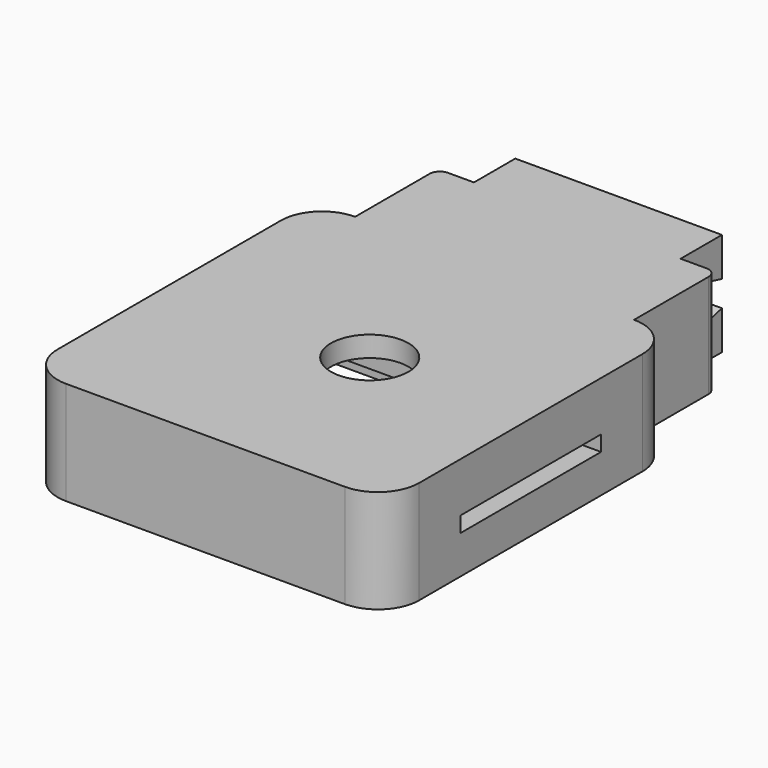
from build123d import *

# Parameters (mm, degrees)
BOX_W           = 35
BOX_H           = 35
BOX_DEPTH       = 10
SKETCH_W        = 24.5
SKETCH_H        = 25.5
POCKET_DEPTH    = 8
SKETCH001_R     = 3.75
POCKET001_DEPTH = 2
PAD_DEPTH       = 2
SKETCH003_W     = 17
SKETCH003_H     = 1.5
POCKET002_DEPTH = 5.251
FILLET_R        = 4
FILLET_FACE7_W  = 27
FILLET_FACE7_H  = 10
PAD001_DEPTH    = 10
PAD001_FACE19_W = 27
PAD001_FACE19_H = 10
PAD002_DEPTH    = 5
POCKET003_DEPTH = 31.001
POCKET004_DEPTH = 3.5
POCKET005_DEPTH = 3.5
FILLET001_R     = 1


with BuildPart() as part:
    # Box → Box (new body)
    with BuildSketch(Plane.XY):
        with Locations((17.5, 17.5)):
            Rectangle(BOX_W, BOX_H)
    extrude(amount=BOX_DEPTH)

    # Sketch (on Face5 of BaseFeature) → Pocket (cut)
    with BuildSketch(Plane(origin=(0, 0, 0), x_dir=(1, 0, 0), z_dir=(0, 0, -1))):
        with Locations((17.5, -17.5)):
            Rectangle(SKETCH_W, SKETCH_H)
    extrude(amount=-POCKET_DEPTH, mode=Mode.SUBTRACT)

    # Sketch001 (on Face3 of Pocket) → Pocket001 (cut)
    with BuildSketch(Plane.XY.offset(10)):
        with Locations((19.25, 17.7)):
            Circle(SKETCH001_R)
    extrude(amount=-POCKET001_DEPTH, mode=Mode.SUBTRACT)

    # Sketch002 (on Face12 of Pocket001) → Pad (join)
    with BuildSketch(Plane(origin=(0, 0, 8), x_dir=(1, 0, 0), z_dir=(0, 0, -1))):
        Polygon((12.75, -30.25), (29.75, -30.25), (29.75, -4.75), (5.25, -4.75), (5.25, -12.75), (23.75, -12.75), (23.75, -22.25), (12.75, -22.25), align=None)
    extrude(amount=PAD_DEPTH)

    # Sketch003 (on Face9 of Pad) → Pocket002 (cut, through all)
    with BuildSketch(Plane(origin=(29.75, 0, 0), x_dir=(0, -1, 0), z_dir=(-1, 0, 0))):
        with Locations((-17.5, 4.45)):
            Rectangle(SKETCH003_W, SKETCH003_H)
    extrude(amount=-POCKET002_DEPTH, mode=Mode.SUBTRACT)

    # Fillet
    fillet_edges = [part.edges().sort_by_distance(p)[0] for p in [
        (0, 0, 5),
        (35, 0, 5),
        (0, 35, 5),
        (35, 35, 5),
    ]]
    fillet(fillet_edges, radius=FILLET_R)

    # Fillet Face7 → Pad001 (add)
    with BuildSketch(Plane(origin=(17.5, 35, 5), x_dir=(1, 0, 0), z_dir=(0, 1, 0))):
        Rectangle(FILLET_FACE7_W, FILLET_FACE7_H)
    extrude(amount=PAD001_DEPTH)

    # Pad001 Face19 → Pad002 (add)
    with BuildSketch(Plane(origin=(17.5, 45, 5), x_dir=(1, 0, 0), z_dir=(0, 1, 0))):
        Rectangle(PAD001_FACE19_W, PAD001_FACE19_H)
    extrude(amount=PAD002_DEPTH)

    # Sketch004 (on Face30 of Pad002) → Pocket003 (cut, through all)
    with BuildSketch(Plane.YZ.offset(31)):
        Polygon((45, 2.5), (45, 7.5), (50, 6.25), (50, 3.75), align=None)
    extrude(amount=-POCKET003_DEPTH, mode=Mode.SUBTRACT)

    # Sketch005 (on Face32 of Pocket003) → Pocket004 (cut)
    with BuildSketch(Plane.YZ.offset(31)):
        Polygon((45, 0), (45, 2.5), (50, 3.75), (50, 0), align=None)
        Polygon((45, 7.5), (45, 10), (50, 10), (50, 6.25), align=None)
    extrude(amount=-POCKET004_DEPTH, mode=Mode.SUBTRACT)

    # Sketch006 (on Face28 of Pocket004) → Pocket005 (cut)
    with BuildSketch(Plane(origin=(4, 0, 0), x_dir=(0, -1, 0), z_dir=(-1, 0, 0))):
        Polygon((-45, 10), (-45, 7.5), (-50, 6.25), (-50, 10), align=None)
        Polygon((-50, 3.75), (-50, 0), (-45, 0), (-45, 2.5), align=None)
    extrude(amount=-POCKET005_DEPTH, mode=Mode.SUBTRACT)

    # Fillet001
    fillet001_edges = [part.edges().sort_by_distance(p)[0] for p in [
        (4, 45, 5),
        (4, 45, 1.25),
        (4, 45, 8.75),
        (31, 45, 1.25),
        (31, 45, 5),
        (31, 45, 8.75),
    ]]
    fillet(fillet001_edges, radius=FILLET001_R)


solid = part.part
